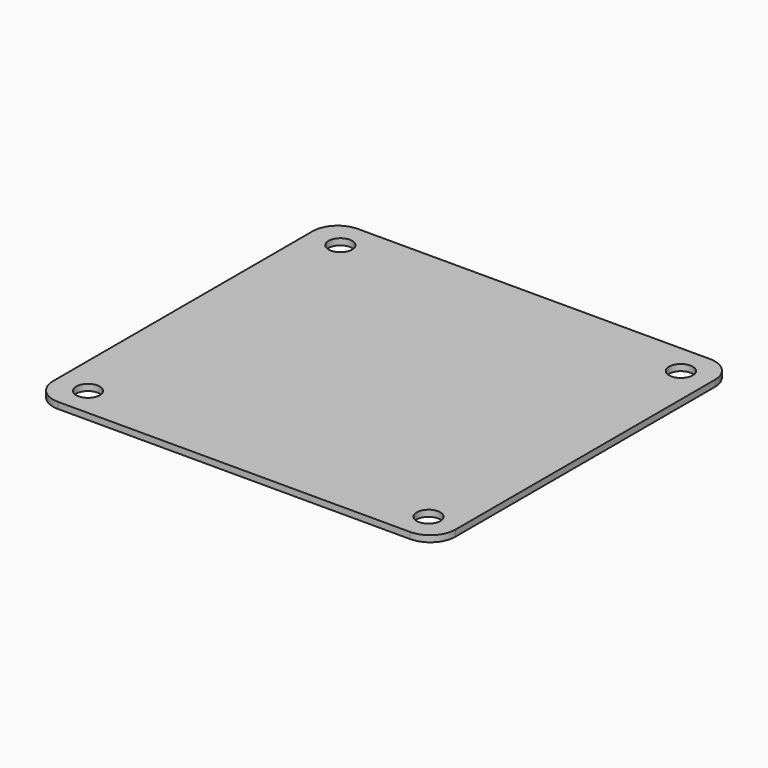
from build123d import *

# Parameters (mm, degrees)
SKETCH086_W   = 102
SKETCH086_H   = 95
PAD035_DEPTH  = 1.6
SKETCH087_R   = 3
HOLE010_DEPTH = 25
FILLET044_R   = 6.35


with BuildPart() as part:
    # Sketch086 → Pad035 (new body)
    with BuildSketch(Plane.XY):
        Rectangle(SKETCH086_W, SKETCH086_H)
    extrude(amount=PAD035_DEPTH)

    # Sketch087 (on Face6 of Pad035) → Hole010 (cut)
    with BuildSketch(Plane.XY.offset(1.6)):
        with Locations((43.38, 39.88)):
            Circle(SKETCH087_R)
        with Locations((43.38, -40.12)):
            Circle(SKETCH087_R)
        with Locations((-42.97, -40.12)):
            Circle(SKETCH087_R)
        with Locations((-42.97, 39.88)):
            Circle(SKETCH087_R)
    extrude(amount=-HOLE010_DEPTH, mode=Mode.SUBTRACT)

    # Fillet044
    fillet044_edges = [part.edges().sort_by_distance(p)[0] for p in [
        (-51, -47.5, 0.8),
        (-51, 47.5, 0.8),
        (51, 47.5, 0.8),
        (51, -47.5, 0.8),
    ]]
    fillet(fillet044_edges, radius=FILLET044_R)


solid = part.part
